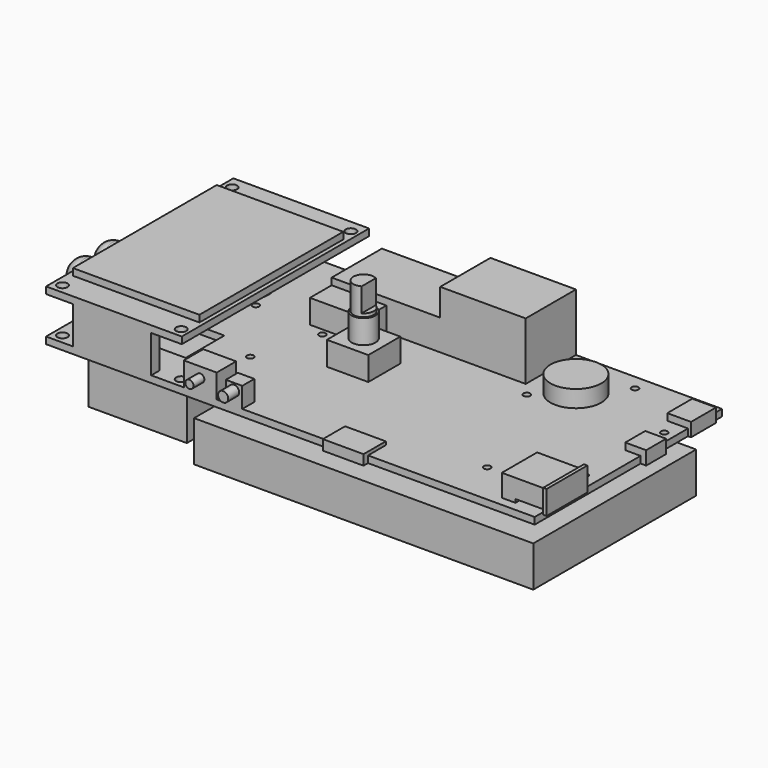
from build123d import *

# Parameters (mm, degrees)
SKETCH_W        = 144.02
SKETCH_H        = 69
PAD_DEPTH       = 2
SKETCH001_R     = 1.5
POCKET_DEPTH    = 5
SKETCH002_W     = 23
SKETCH002_H     = 3
PAD001_DEPTH    = 11
SKETCH003_W     = 40
SKETCH003_H     = 69
PAD002_DEPTH    = 2
SKETCH004_W     = 37.3
SKETCH004_H     = 53
PAD003_DEPTH    = 2
SKETCH005_R     = 1.5
POCKET001_DEPTH = 5
SKETCH006_R     = 7
POCKET002_DEPTH = 5
SKETCH007_R     = 1
POCKET003_DEPTH = 5
SKETCH008_R     = 2.5
SKETCH008_W     = 23.5
SKETCH008_H     = 14.25
POCKET004_DEPTH = 5
SKETCH024_R     = 1
POCKET012_DEPTH = 5
SKETCH025_W     = 7
SKETCH025_H     = 9.2
SKETCH025_W_2   = 6.15
SKETCH025_H_2   = 7.35
PAD012_DEPTH    = 2
SKETCH026_W     = 14
SKETCH026_H     = 13
PAD013_DEPTH    = 6.5
SKETCH027_W     = 13
SKETCH027_H     = 1
POCKET013_DEPTH = 10
SKETCH028_W     = 15
SKETCH028_H     = 7
PAD014_DEPTH    = 1
SKETCH038_W     = 12.2
SKETCH038_H     = 11.8
PAD022_DEPTH    = 7
SKETCH039_R     = 3.5
PAD023_DEPTH    = 7
SKETCH040_R     = 3
PAD024_DEPTH    = 8
SKETCH041_W     = 10
SKETCH041_H     = 10
POCKET016_DEPTH = 7
SKETCH042_R     = 7.5
PAD025_DEPTH    = 5
SKETCH043_W     = 57.2
SKETCH043_H     = 18.5
PAD026_DEPTH    = 17
SKETCH044_W     = 12
SKETCH044_H     = 8.19
PAD027_DEPTH    = 3
SKETCH045_W     = 9.7
SKETCH045_H     = 7.15
PAD028_DEPTH    = 7
SKETCH046_R     = 1.2
PAD029_DEPTH    = 4
SKETCH047_W     = 4.85
SKETCH047_H     = 4.45
PAD030_DEPTH    = 6
SKETCH048_R     = 1.5
PAD031_DEPTH    = 4
SKETCH049_W     = 29
SKETCH049_H     = 55.5
PAD032_DEPTH    = 18
SKETCH050_R     = 2.5
PAD033_DEPTH    = 8
SKETCH051_W     = 100
SKETCH051_H     = 60
PAD034_DEPTH    = 12
SKETCH052_R     = 4.5
PAD035_DEPTH    = 16
FILLET003_R     = 4
SKETCH053_W     = 32
SKETCH053_H     = 18.5
POCKET017_DEPTH = 9
SKETCH062_W     = 16.12
SKETCH062_H     = 8
PAD041_DEPTH    = 7


with BuildPart() as part:
    # Sketch → Pad (new body)
    with BuildSketch(Plane.XY):
        Rectangle(SKETCH_W, SKETCH_H)
    extrude(amount=PAD_DEPTH)

    # Sketch001 (on Face6 of Pad) → Pocket (cut)
    with BuildSketch(Plane.XY.offset(2)):
        with Locations((-69.41, -31.7)):
            Circle(SKETCH001_R)
        with Locations((-34.41, -31.7)):
            Circle(SKETCH001_R)
        with Locations((-69.41, 30.8)):
            Circle(SKETCH001_R)
        with Locations((-34.41, 30.8)):
            Circle(SKETCH001_R)
    extrude(amount=-POCKET_DEPTH, mode=Mode.SUBTRACT)

    # Sketch002 (on Face5 of Pocket) → Pad001 (join)
    with BuildSketch(Plane.XY.offset(2)):
        with Locations((-52.51, -33)):
            Rectangle(SKETCH002_W, SKETCH002_H)
    extrude(amount=PAD001_DEPTH)

    # Sketch003 (on Face15 of Pad001) → Pad002 (join)
    with BuildSketch(Plane.XY.offset(13)):
        with Locations((-52.01, 0)):
            Rectangle(SKETCH003_W, SKETCH003_H)
    extrude(amount=PAD002_DEPTH)

    # Sketch004 (on Face6 of Pad002) → Pad003 (join)
    with BuildSketch(Plane.XY.offset(15)):
        with Locations((-51.86, 0)):
            Rectangle(SKETCH004_W, SKETCH004_H)
    extrude(amount=PAD003_DEPTH)

    # Sketch005 (on Face6 of Pad003) → Pocket001 (cut)
    with BuildSketch(Plane.XY.offset(15)):
        with Locations((-69.41, 30.8)):
            Circle(SKETCH005_R)
        with Locations((-34.41, 30.8)):
            Circle(SKETCH005_R)
        with Locations((-34.41, -31.7)):
            Circle(SKETCH005_R)
        with Locations((-69.41, -31.7)):
            Circle(SKETCH005_R)
    extrude(amount=-POCKET001_DEPTH, mode=Mode.SUBTRACT)

    # Sketch006 (on Face23 of Pocket001) → Pocket002 (cut)
    with BuildSketch(Plane(origin=(0, 0, 0), x_dir=(1, 0, 0), z_dir=(0, 0, -1))):
        with Locations((-52.01, -13.75)):
            Circle(SKETCH006_R)
    extrude(amount=-POCKET002_DEPTH, mode=Mode.SUBTRACT)

    # Sketch007 (on Face20 of Pocket002) → Pocket003 (cut)
    with BuildSketch(Plane.XY.offset(2)):
        with Locations((-59.01, 20.8)):
            Circle(SKETCH007_R)
        with Locations((-44.01, 7.8)):
            Circle(SKETCH007_R)
    extrude(amount=-POCKET003_DEPTH, mode=Mode.SUBTRACT)

    # Sketch008 (on Face23 of Pocket003) → Pocket004 (cut)
    with BuildSketch(Plane(origin=(0, 0, 0), x_dir=(1, 0, 0), z_dir=(0, 0, -1))):
        with Locations((-52.01, 4)):
            Circle(SKETCH008_R)
        with Locations((-52.01, 15.625)):
            Rectangle(SKETCH008_W, SKETCH008_H)
    extrude(amount=-POCKET004_DEPTH, mode=Mode.SUBTRACT)

    # Sketch024 (on Face20 of Pocket004) → Pocket012 (cut)
    with BuildSketch(Plane.XY.offset(2)):
        with Locations((-28.99, -13)):
            Circle(SKETCH024_R)
        with Locations((-22.99, 6)):
            Circle(SKETCH024_R)
        with Locations((32.51, 12)):
            Circle(SKETCH024_R)
        with Locations((50.01, 30)):
            Circle(SKETCH024_R)
        with Locations((48.01, -22)):
            Circle(SKETCH024_R)
        with Locations((68.01, -11)):
            Circle(SKETCH024_R)
        with Locations((69.01, 17)):
            Circle(SKETCH024_R)
    extrude(amount=-POCKET012_DEPTH, mode=Mode.SUBTRACT)

    # Sketch025 (on Face20 of Pocket012) → Pad012 (join, symmetric)
    with BuildSketch(Plane.XY.offset(2)):
        with Locations((69.41, 26.6)):
            Rectangle(SKETCH025_W, SKETCH025_H)
        with Locations((70.58, 8.2)):
            Rectangle(SKETCH025_W_2, SKETCH025_H_2)
    extrude(amount=PAD012_DEPTH, both=True)

    # Sketch026 (on Face20 of Pad012) → Pad013 (join)
    with BuildSketch(Plane.XY.offset(2)):
        with Locations((67.143, -25.26)):
            Rectangle(SKETCH026_W, SKETCH026_H)
    extrude(amount=PAD013_DEPTH)

    # Sketch027 (on Face65 of Pad013) → Pocket013 (cut)
    with BuildSketch(Plane.YZ.offset(74.143)):
        with Locations((-25.26, 2.5)):
            Rectangle(SKETCH027_W, SKETCH027_H)
    extrude(amount=-POCKET013_DEPTH, mode=Mode.SUBTRACT)

    # Sketch028 (on Face67 of Pocket013) → Pad014 (join)
    with BuildSketch(Plane.YZ.offset(74.143)):
        with Locations((-25.26, 5.75)):
            Rectangle(SKETCH028_W, SKETCH028_H)
    extrude(amount=-PAD014_DEPTH)

    # Sketch038 (on Face20 of Pad014) → Pad022 (join)
    with BuildSketch(Plane.XY.offset(2)):
        with Locations((-6.01, 0)):
            Rectangle(SKETCH038_W, SKETCH038_H)
    extrude(amount=PAD022_DEPTH)

    # Sketch039 (on Face73 of Pad022) → Pad023 (join)
    with BuildSketch(Plane.XY.offset(9)):
        with Locations((-6.01, 0)):
            Circle(SKETCH039_R)
    extrude(amount=PAD023_DEPTH)

    # Sketch040 (on Face80 of Pad023) → Pad024 (join)
    with BuildSketch(Plane.XY.offset(16)):
        with Locations((-6.01, 0)):
            Circle(SKETCH040_R)
    extrude(amount=PAD024_DEPTH)

    # Sketch041 (on Face83 of Pad024) → Pocket016 (cut)
    with BuildSketch(Plane.XY.offset(24)):
        with Locations((0.49, 0)):
            Rectangle(SKETCH041_W, SKETCH041_H)
    extrude(amount=-POCKET016_DEPTH, mode=Mode.SUBTRACT)

    # Sketch042 (on Face20 of Pocket016) → Pad025 (join)
    with BuildSketch(Plane.XY.offset(2)):
        with Locations((40.89, 19.6)):
            Circle(SKETCH042_R)
    extrude(amount=PAD025_DEPTH)

    # Sketch043 (on Face20 of Pad025) → Pad026 (join)
    with BuildSketch(Plane.XY.offset(2)):
        with Locations((0.37, 25.25)):
            Rectangle(SKETCH043_W, SKETCH043_H)
    extrude(amount=PAD026_DEPTH)

    # Sketch044 (on Face23 of Pad026) → Pad027 (join)
    with BuildSketch(Plane(origin=(0, 0, 0), x_dir=(1, 0, 0), z_dir=(0, 0, -1))):
        with Locations((16.89, 32.055)):
            Rectangle(SKETCH044_W, SKETCH044_H)
    extrude(amount=-PAD027_DEPTH)

    # Sketch045 (on Face20 of Pad027) → Pad028 (join)
    with BuildSketch(Plane.XY.offset(2)):
        with Locations((-26.56, -30.925)):
            Rectangle(SKETCH045_W, SKETCH045_H)
    extrude(amount=PAD028_DEPTH)

    # Sketch046 (on Face23 of Pad028) → Pad029 (join)
    with BuildSketch(Plane.XZ.offset(34.5)):
        with Locations((-26.56, 6)):
            Circle(SKETCH046_R)
    extrude(amount=PAD029_DEPTH)

    # Sketch047 (on Face20 of Pad029) → Pad030 (join)
    with BuildSketch(Plane.XY.offset(2)):
        with Locations((-16.61, -32.275)):
            Rectangle(SKETCH047_W, SKETCH047_H)
    extrude(amount=PAD030_DEPTH)

    # Sketch048 (on Face23 of Pad030) → Pad031 (join)
    with BuildSketch(Plane.XZ.offset(34.5)):
        with Locations((-16.61, 6)):
            Circle(SKETCH048_R)
    extrude(amount=PAD031_DEPTH)

    # Sketch049 (on Face21 of Pad031) → Pad032 (join)
    with BuildSketch(Plane(origin=(0, 0, 0), x_dir=(1, 0, 0), z_dir=(0, 0, -1))):
        with Locations((-52.01, -2)):
            Rectangle(SKETCH049_W, SKETCH049_H)
    extrude(amount=PAD032_DEPTH)

    # Sketch050 (on Face21 of Pad032) → Pad033 (join)
    with BuildSketch(Plane(origin=(0, 0, 0), x_dir=(1, 0, 0), z_dir=(0, 0, -1))):
        Circle(SKETCH050_R)
    extrude(amount=PAD033_DEPTH)

    # Sketch051 (on Face112 of Pad033) → Pad034 (join)
    with BuildSketch(Plane(origin=(0, 0, -8), x_dir=(1, 0, 0), z_dir=(0, 0, -1))):
        with Locations((18, 0)):
            Rectangle(SKETCH051_W, SKETCH051_H)
    extrude(amount=PAD034_DEPTH)

    # Sketch052 (on Face10 of Pad034) → Pad035 (join)
    with BuildSketch(Plane(origin=(-72.01, 0, 0), x_dir=(0, -1, 0), z_dir=(-1, 0, 0))):
        with Locations((-5.1, 2)):
            Circle(SKETCH052_R)
        with Locations((5.1, 2)):
            Circle(SKETCH052_R)
    extrude(amount=PAD035_DEPTH)

    # Fillet003
    fillet003_edges = [part.edges().sort_by_distance(p)[0] for p in [
        (-88.01, 9.6, 2),
        (-88.01, -0.6, 2),
    ]]
    fillet(fillet003_edges, radius=FILLET003_R)

    # Sketch053 (on Face87 of Fillet003) → Pocket017 (cut)
    with BuildSketch(Plane.XY.offset(11)):
        with Locations((-12.23, 25.25)):
            Rectangle(SKETCH053_W, SKETCH053_H)
    extrude(amount=POCKET017_DEPTH, mode=Mode.SUBTRACT)

    # Sketch062 (on Face9 of Pocket017) → Pad041 (join)
    with BuildSketch(Plane.XY.offset(2)):
        with Locations((-20.17, 12)):
            Rectangle(SKETCH062_W, SKETCH062_H)
    extrude(amount=PAD041_DEPTH)


solid = part.part
